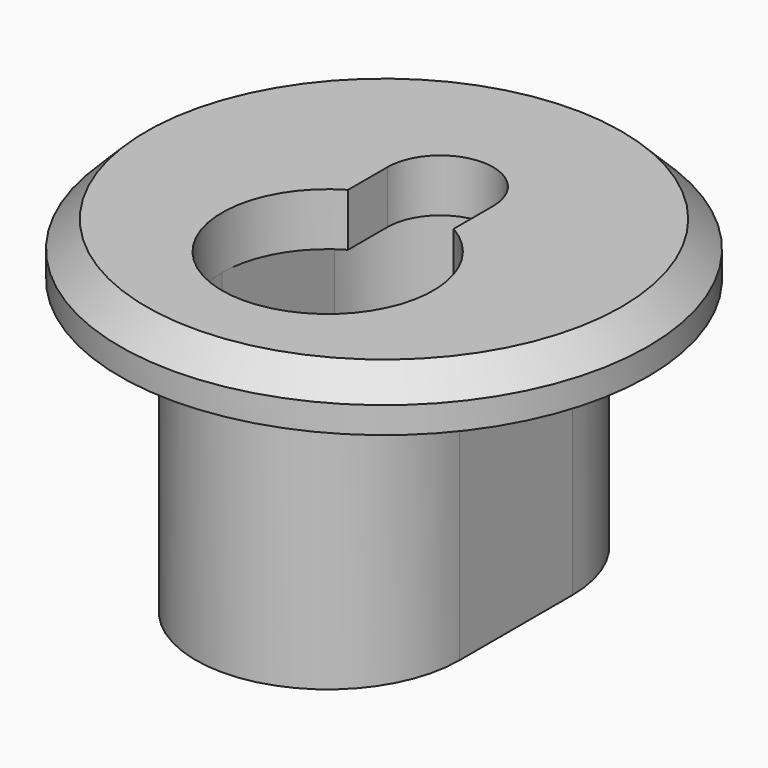
from build123d import *

# Parameters (mm, degrees)
PAD_DEPTH    = 15
POCKET_DEPTH = 12
SKETCH002_R  = 15
PAD001_DEPTH = 3
CHAMFER_SIZE = 1.5


with BuildPart() as part:
    # Sketch → Pad (new body)
    with BuildSketch(Plane.XY):
        with BuildLine():
            ThreePointArc((7.5, 8), (0, 15.5), (-7.5, 8))
            Line((-7.5, 8), (-7.5, 0))
            ThreePointArc((-7.5, 0), (0, -7.5), (7.5, 0))
            Line((7.5, 0), (7.5, 8))
        make_face()
    extrude(amount=PAD_DEPTH)

    # Sketch001 (on Face6 of Pad) → Pocket (cut)
    with BuildSketch(Plane.XY.offset(15)):
        with BuildLine():
            ThreePointArc((-6, 0), (0, -6), (6, 0))
            Line((6, 0), (6, 8))
            ThreePointArc((6, 8), (0, 14), (-6, 8))
            Line((-6, 8), (-6, 0))
        make_face()
    extrude(amount=-POCKET_DEPTH, mode=Mode.SUBTRACT)

    # Sketch002 (on Face5 of Pocket) → Pad001 (join)
    with BuildSketch(Plane.XY.offset(15)):
        with Locations((0, 4)):
            Circle(SKETCH002_R)
        with BuildLine():
            ThreePointArc((-3, 5.196152), (0, -6), (3, 5.196152))
            Line((3, 8), (3, 5.196152))
            ThreePointArc((3, 8), (0, 11), (-3, 8))
            Line((-3, 8), (-3, 5.196152))
        make_face(mode=Mode.SUBTRACT)
    extrude(amount=PAD001_DEPTH)

    # Chamfer
    chamfer_edges = [part.edges().sort_by_distance(p)[0] for p in [
        (-15, 4, 18),
    ]]
    chamfer(chamfer_edges, length=CHAMFER_SIZE)


solid = part.part
